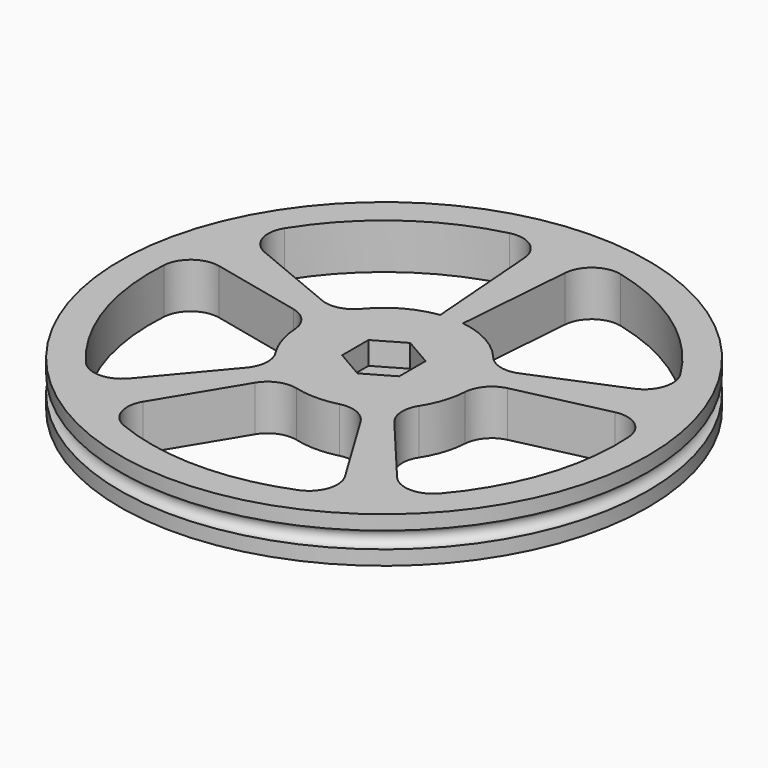
from build123d import *

# Parameters (mm, degrees)
F0_R     = 1.905
F1_DEPTH = 5.08
F0_R_2   = 58.9915
F2_DEPTH = 10.16
F3_R     = 1.8415
F7_D     = 3.81
F7_DEPTH = 3.81
F7_TIP   = 1.1446394792


with BuildPart() as f1:
    # F0 (on Top) → F1 (new body)
    with BuildSketch(Plane.XY):
        Polygon((-6.4052528628, -3.7129219378), (-0.0261097385, -7.3959219378), (6.3530333858, -3.7129219378), (6.3530333858, 3.6530780622), (-0.0261097385, 7.3360780622), (-6.4052528628, 3.6530780622), align=None)
        with Locations((-0.0261097385, -0.0299219378)):
            Circle(F0_R, mode=Mode.SUBTRACT)
    extrude(amount=F1_DEPTH)

    # F0 (on Top) → F2 (join)
    with BuildSketch(Plane.XY):
        Circle(F0_R_2)
        with BuildLine():
            Line((-44.2124819173, 9.2097946363), (-23.9423226363, 4.6011586921))
            ThreePointArc((-23.9423226363, 4.6011586921), (-20.5137110236, 2.5239744907), (-19.0126005957, -1.1931129822))
            ThreePointArc((-19.0126005957, -1.1931129822), (-18.1042521178, -5.9277782732), (-16.0364137318, -10.2827979958))
            ThreePointArc((-16.0364137318, -10.2827979958), (-15.0448681501, -14.1162516757), (-16.5173341467, -17.7918976931))
            Line((-16.5173341467, -17.7918976931), (-29.9142206112, -33.7590248091))
            ThreePointArc((-29.9142206112, -33.7590248091), (-34.752324822, -36.0274693708), (-39.6091563625, -33.7994028387))
            ThreePointArc((-39.6091563625, -33.7994028387), (-49.423694035, -16.3885132924), (-51.9564452709, 3.4369601117))
            ThreePointArc((-51.9564452709, 3.4369601117), (-49.4154929179, 8.1088853878), (-44.2124819173, 9.2097946363))
        make_face(mode=Mode.SUBTRACT)
        Polygon((6.3530333858, -3.7129219378), (-0.0261097385, -7.3959219378), (-6.4052528628, -3.7129219378), (-6.4052528628, 3.6530780622), (-0.0261097385, 7.3360780622), (6.3530333858, 3.6530780622), align=None, mode=Mode.SUBTRACT)
        with BuildLine():
            ThreePointArc((-11.7881374723, -21.3045429378), (-8.7511162218, -18.7113231264), (-4.766540139, -18.4440395549))
            ThreePointArc((-4.766540139, -18.4440395549), (0, -19.05), (4.766540139, -18.4440395549))
            ThreePointArc((4.766540139, -18.4440395549), (8.7511162218, -18.7113231264), (11.7881374723, -21.3045429378))
            Line((11.7881374723, -21.3045429378), (22.5588981673, -39.1036858663))
            ThreePointArc((22.5588981673, -39.1036858663), (23.1511277222, -44.3967165208), (19.5047791508, -48.2788617334))
            ThreePointArc((19.5047791508, -48.2788617334), (0, -52.07), (-19.5047791508, -48.2788617334))
            ThreePointArc((-19.5047791508, -48.2788617334), (-23.1511277222, -44.3967165208), (-22.5588981673, -39.1036858663))
            Line((-22.5588981673, -39.1036858663), (-11.7881374723, -21.3045429378))
        make_face(mode=Mode.SUBTRACT)
        with Locations((53.3448168004, -15.4270773673)):
            Circle(F0_R, mode=Mode.SUBTRACT)
        with BuildLine():
            Line((29.9142206112, -33.7590248091), (16.5173341467, -17.7918976931))
            ThreePointArc((16.5173341467, -17.7918976931), (15.0448681501, -14.1162516757), (16.0364137318, -10.2827979958))
            ThreePointArc((16.0364137318, -10.2827979958), (18.1042521178, -5.9277782732), (19.0126005957, -1.1931129822))
            ThreePointArc((19.0126005957, -1.1931129822), (20.5137110236, 2.5239744907), (23.9423226363, 4.6011586921))
            Line((23.9423226363, 4.6011586921), (44.2124819173, 9.2097946363))
            ThreePointArc((44.2124819173, 9.2097946363), (49.4154929179, 8.1088853878), (51.9564452709, 3.4369601117))
            ThreePointArc((51.9564452709, 3.4369601117), (49.423694035, -16.3885132924), (39.6091563625, -33.7994028387))
            ThreePointArc((39.6091563625, -33.7994028387), (34.752324822, -36.0274693708), (29.9142206112, -33.7590248091))
        make_face(mode=Mode.SUBTRACT)
        with BuildLine():
            ThreePointArc((-12.3878761858, 50.5749485774), (-7.1524486585, 49.550133826), (-4.5459522271, 44.895445542))
            Line((-4.5459522271, 44.895445542), (-2.54, 18.8799073091))
            ThreePointArc((-2.54, 18.8799073091), (-9.267390723, 16.6438568003), (-14.7113573439, 12.1028288057))
            ThreePointArc((-14.7113573439, 12.1028288057), (-18.0767743108, 9.9762673559), (-22.0468294507, 10.2711523285))
            Line((-22.0468294507, 10.2711523285), (-41.2782743334, 18.243402288))
            ThreePointArc((-41.2782743334, 18.243402288), (-44.8916103761, 22.1650802153), (-44.2419474535, 27.4578765661))
            ThreePointArc((-44.2419474535, 27.4578765661), (-30.5832304695, 42.1420326284), (-12.3878761858, 50.5749485774))
        make_face(mode=Mode.SUBTRACT)
        with BuildLine():
            ThreePointArc((12.3878761858, 50.5749485774), (30.5832304695, 42.1420326284), (44.2419474535, 27.4578765661))
            ThreePointArc((44.2419474535, 27.4578765661), (44.8916103761, 22.1650802153), (41.2782743334, 18.243402288))
            Line((41.2782743334, 18.243402288), (22.0468294507, 10.2711523285))
            ThreePointArc((22.0468294507, 10.2711523285), (18.0767743108, 9.9762673559), (14.7113573439, 12.1028288057))
            ThreePointArc((14.7113573439, 12.1028288057), (9.267390723, 16.6438568003), (2.54, 18.8799073091))
            Line((2.54, 18.8799073091), (4.5459522271, 44.895445542))
            ThreePointArc((4.5459522271, 44.895445542), (7.1524486585, 49.550133826), (12.3878761858, 50.5749485774))
        make_face(mode=Mode.SUBTRACT)
        with Locations((53.3448168004, -15.4270773673)):
            Circle(F0_R)
    extrude(amount=F2_DEPTH)


with BuildPart() as f5:
    # F3 (on Front) → F5 (revolve)
    with BuildSketch(Plane.XZ):
        with Locations((59.055, 5.08)):
            Circle(F3_R)
    revolve(axis=Axis((0, 0, 4.4038342312), (0, 0, 1)))


with BuildPart() as f1_1:
    add(f1.part)

    # F6: cut F5
    add(f5.part, mode=Mode.SUBTRACT)

    # F7
    with Locations(Plane(origin=(0, 0, 0), x_dir=(1, 0, 0), z_dir=(0, 0, -1))):
        with Locations((53.3448168004, 15.4270773673)):
            Hole(F7_D / 2, depth=F7_DEPTH)
            with Locations((0, 0, -(F7_DEPTH + F7_TIP / 2))):  # 118° drill point
                Cone(0, F7_D / 2, F7_TIP, mode=Mode.SUBTRACT)


solid = f1_1.part
